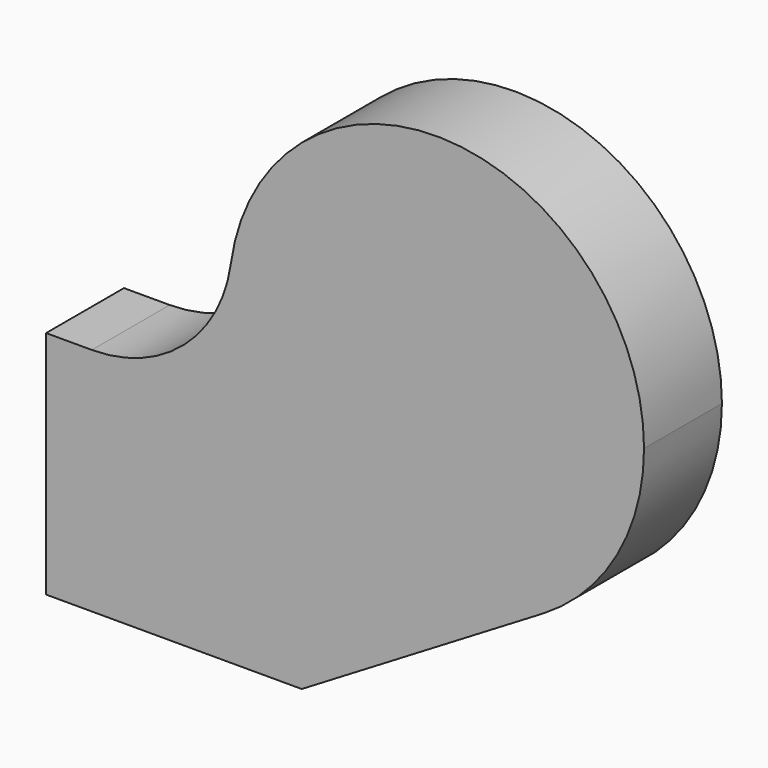
from build123d import *

# Parameters (mm, degrees)
F1_DEPTH = 25.4
F2_R     = 36.602652


with BuildPart() as f1:
    # F0 (on Front) → F1 (new body)
    with BuildSketch(Plane.XZ):
        with BuildLine():
            ThreePointArc((27.884731, -46.42006), (-15.126494, -51.995859), (-48.434418, -24.2175))
            Line((-48.434418, -24.2175), (-101.850342, -24.2175))
            Line((-101.850342, -24.2175), (-101.850342, -84.289707))
            Line((-101.850342, -84.289707), (-35.157345, -84.289707))
            Line((-35.157345, -84.289707), (27.884731, -46.42006))
        make_face()
        with BuildLine():
            ThreePointArc((27.884731, -46.42006), (47.129496, -26.668159), (54.151455, 0))
            ThreePointArc((54.151455, 0), (-12.441582, 52.702819), (-48.434418, -24.2175))
            ThreePointArc((-48.434418, -24.2175), (-15.126494, -51.995859), (27.884731, -46.42006))
        make_face()
    extrude(amount=F1_DEPTH)

    # F2
    f2_edges = [f1.edges().sort_by_distance(p)[0] for p in [
        (-48.434418, -12.7, -24.2175),
    ]]
    fillet(f2_edges, radius=F2_R)


solid = f1.part
